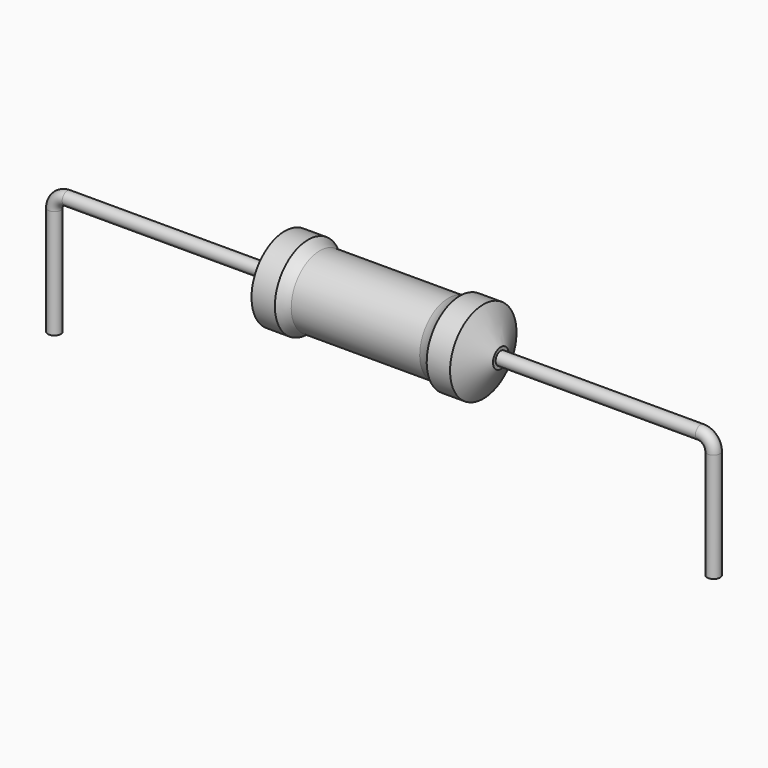
from build123d import *

# Parameters (mm, degrees)
SKETCH_R = 0.25


with BuildPart() as revolution:
    # Sketch002 → Revolution (revolve)
    with BuildSketch(Plane.XZ):
        with BuildLine():
            Line((8.875, 3.3), (9.775, 3.3))
            ThreePointArc((9.775, 3.3), (9.990689, 3.168878), (10.225, 3.075))
            Line((10.225, 3.075), (15.175, 3.075))
            ThreePointArc((15.175, 3.075), (15.409311, 3.168878), (15.625, 3.3))
            Line((15.625, 3.3), (16.525, 3.3))
            ThreePointArc((17.2, 2.075), (16.863989, 2.68832), (16.525, 3.3))
            Line((17.2, 1.7), (17.2, 2.075))
            Line((8.2, 1.7), (17.2, 1.7))
            Line((8.2, 1.7), (8.2, 2.075))
            ThreePointArc((8.875, 3.3), (8.536011, 2.68832), (8.2, 2.075))
        make_face()
    revolve(axis=Axis((8.2, 0, 1.7), (1, 0, 0)))


with BuildPart() as sweep_body:
    # Sweep: sweep along a path in Sketch001
    with BuildLine(Plane.XZ) as sweep_path:
        Line((0, -3), (0, 1.2))
        ThreePointArc((0, 1.2), (0.14645, 1.553557), (0.50001, 1.7))
        Line((0.50001, 1.7), (24.9, 1.7))
        ThreePointArc((24.9, 1.7), (25.253553, 1.553553), (25.4, 1.2))
        Line((25.4, 1.2), (25.4, -3))
    # Sketch → Sweep (sweep)
    with BuildSketch(Plane.XY.offset(-2)):
        Circle(SKETCH_R)
    sweep(path=sweep_path.line)


solid = Compound([revolution.part, sweep_body.part])
